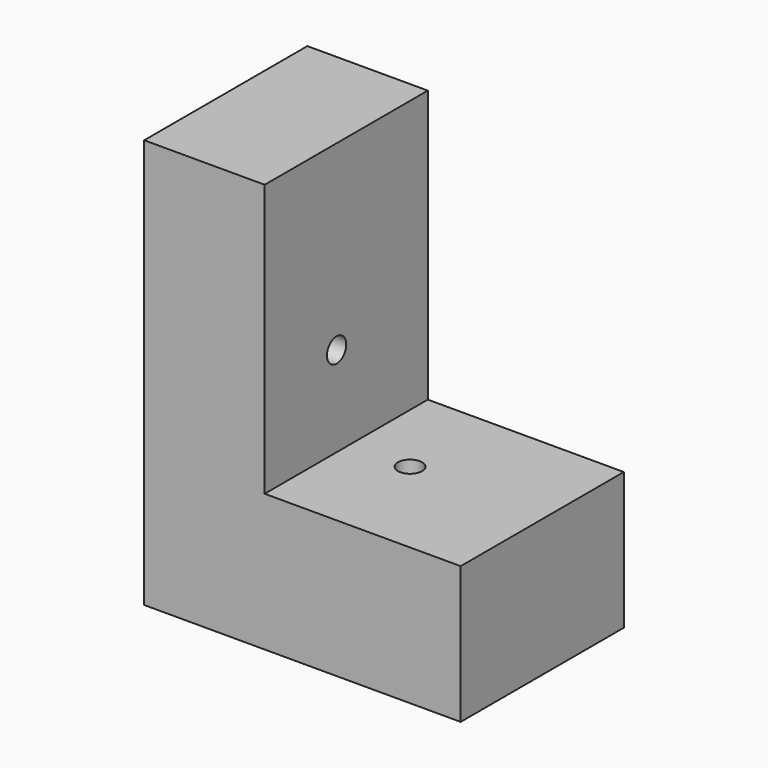
from build123d import *

# Parameters (mm, degrees)
F1_DEPTH = 76.2
F2_R     = 4.5085
F4_DEPTH = 76.2
F3_R     = 4.5085
F5_DEPTH = 76.2


with BuildPart() as f1:
    # F0 (on Front) → F1 (new body)
    with BuildSketch(Plane.XZ):
        Polygon((-31.118602, 76.344244), (-76.136798, 76.344244), (-76.136798, -25.309771), (-76.136798, -76.344237), (-76.136798, -76.551691), (42.113781, -76.551691), (42.113781, -25.309771), (-31.118602, -25.309771), align=None)
    extrude(amount=F1_DEPTH)

    # F2 (on face) → F4 (cut)
    with BuildSketch(Plane.XY.offset(-25.309771)):
        with Locations((-8.686219, -36.344424)):
            Circle(F2_R)
    extrude(amount=-F4_DEPTH, mode=Mode.SUBTRACT)

    # F3 (on face) → F5 (cut)
    with BuildSketch(Plane.YZ.offset(-31.118602)):
        with Locations((-42.6085, 8.335744)):
            Circle(F3_R)
    extrude(amount=-F5_DEPTH, mode=Mode.SUBTRACT)


solid = f1.part
